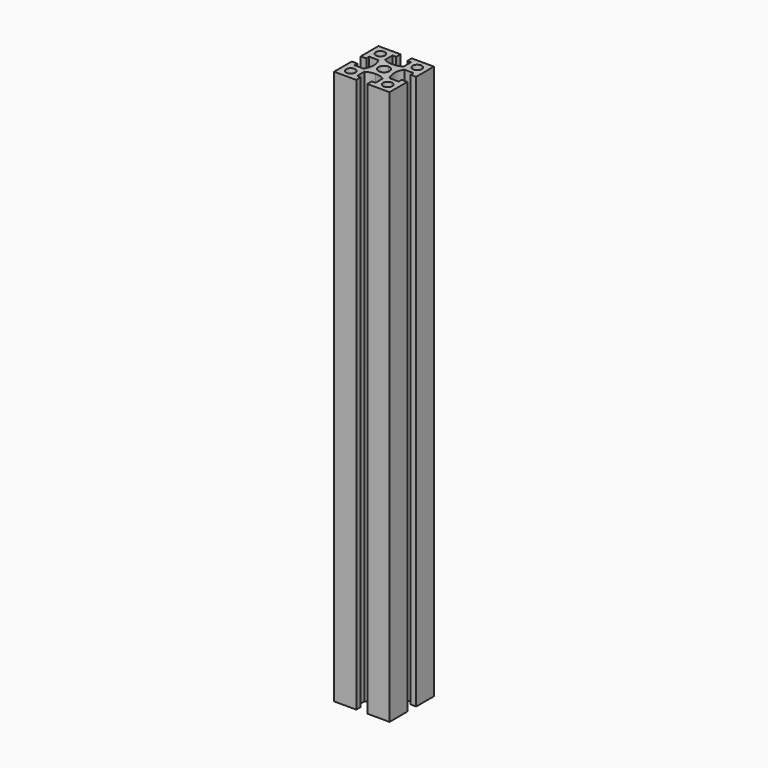
from build123d import *

# Parameters (mm, degrees)
F0_R     = 5
F1_DEPTH = 600


with BuildPart() as f1:
    # F0 (on Top) → F1 (new body)
    with BuildSketch(Plane.XY):
        with BuildLine():
            Line((30, 6), (30, 30))
            Line((30, 30), (6, 30))
            Line((6, 30), (6, 24))
            Line((6, 24), (10, 24))
            Line((10, 24), (10, 14))
            ThreePointArc((10, 14), (5.176381, 12.001992), (0, 11.320508))
            Line((0, 11.320508), (0, 6))
            ThreePointArc((0, 6), (4.242641, 4.242641), (6, 0))
            ThreePointArc((6, 0), (4.242641, -4.242641), (0, -6))
            Line((0, -6), (0, -11.320508))
            ThreePointArc((0, -11.320508), (5.176381, -12.001992), (10, -14))
            Line((10, -14), (10, -24))
            Line((10, -24), (6, -24))
            Line((6, -24), (6, -30))
            Line((6, -30), (30, -30))
            Line((30, -30), (30, -6))
            Line((30, -6), (24, -6))
            Line((24, -6), (24, -10))
            Line((24, -10), (14, -10))
            ThreePointArc((14, -10), (11.132038, 0), (14, 10))
            Line((14, 10), (24, 10))
            Line((24, 10), (24, 6))
            Line((24, 6), (30, 6))
        make_face()
        with Locations((20, -20)):
            Circle(F0_R, mode=Mode.SUBTRACT)
        with Locations((20, 20)):
            Circle(F0_R, mode=Mode.SUBTRACT)
        with BuildLine():
            Line((0, 6), (0, 11.320508))
            ThreePointArc((0, 11.320508), (-5.176381, 12.001992), (-10, 14))
            Line((-10, 14), (-10, 24))
            Line((-10, 24), (-6, 24))
            Line((-6, 24), (-6, 30))
            Line((-6, 30), (-30, 30))
            Line((-30, 30), (-30, 6))
            Line((-30, 6), (-24, 6))
            Line((-24, 6), (-24, 10))
            Line((-24, 10), (-14, 10))
            ThreePointArc((-14, 10), (-11.132038, 0), (-14, -10))
            Line((-14, -10), (-24, -10))
            Line((-24, -10), (-24, -6))
            Line((-24, -6), (-30, -6))
            Line((-30, -6), (-30, -30))
            Line((-30, -30), (-6, -30))
            Line((-6, -30), (-6, -24))
            Line((-6, -24), (-10, -24))
            Line((-10, -24), (-10, -14))
            ThreePointArc((-10, -14), (-5.176381, -12.001992), (0, -11.320508))
            Line((0, -11.320508), (0, -6))
            ThreePointArc((0, -6), (-6, 0), (0, 6))
        make_face()
        with Locations((-20, -20)):
            Circle(F0_R, mode=Mode.SUBTRACT)
        with Locations((-20, 20)):
            Circle(F0_R, mode=Mode.SUBTRACT)
    extrude(amount=F1_DEPTH)


solid = f1.part
